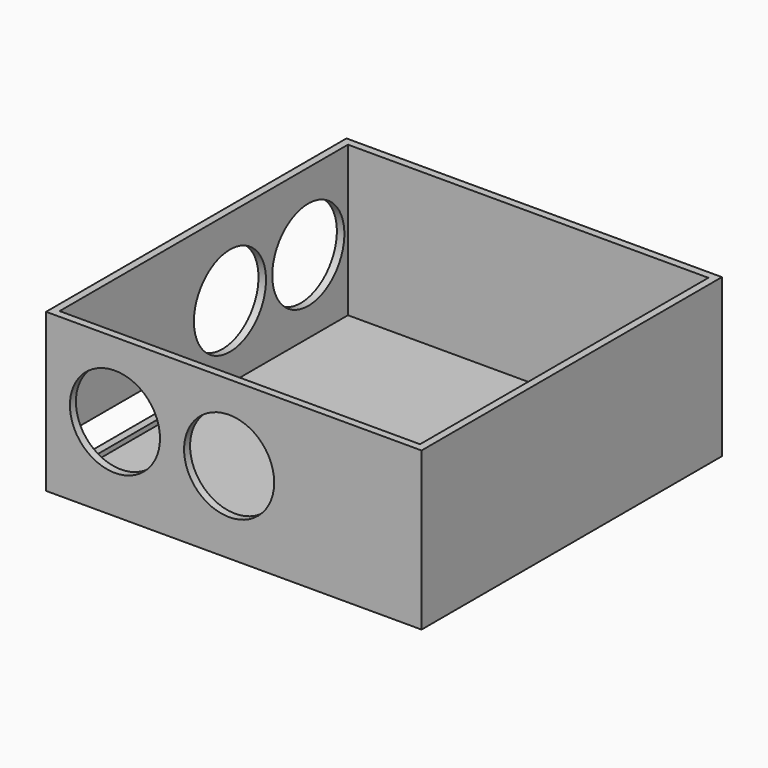
from build123d import *

# Parameters (mm, degrees)
F0_W         = 500
F0_H         = 500
F1_DEPTH     = 10
F2_W         = 500
F2_H         = 10
F3_DEPTH     = 200
F4_W         = 10
F4_H         = 490
F5_DEPTH     = 250
F6_W         = 490
F6_H         = 10
F7_DEPTH     = 250
F8_W         = 10
F8_H         = 480
F9_DEPTH     = 250
F10_DEPTH    = 50
F10_FACE_W   = 500
F10_FACE_H   = 500
F10_FACE_W_2 = 480
F10_FACE_H_2 = 480
F11_DEPTH    = 50
F12_R        = 60
F13_DEPTH    = 70
F14_R        = 60
F15_DEPTH    = 122
F16_W        = 220
F16_H        = 45
F17_DEPTH    = 25
F18_R        = 60
F19_DEPTH    = 25
F20_R        = 60
F21_DEPTH    = 25


with BuildPart() as f1:
    # F0 (on Top) → F1 (new body)
    with BuildSketch(Plane.XY):
        with Locations((-198.410127, 219.103556)):
            Rectangle(F0_W, F0_H)
    extrude(amount=F1_DEPTH)

    # F2 (on face) → F3 (join)
    with BuildSketch(Plane.XY.offset(10)):
        with Locations((-198.410127, 464.103556)):
            Rectangle(F2_W, F2_H)
    extrude(amount=F3_DEPTH)

    # F4 (on face) → F5 (join)
    with BuildSketch(Plane.XY.offset(10)):
        with Locations((46.589873, 214.103556)):
            Rectangle(F4_W, F4_H)
    extrude(amount=F5_DEPTH)

    # F6 (on face) → F7 (join)
    with BuildSketch(Plane.XY.offset(10)):
        with Locations((-203.410127, -25.896444)):
            Rectangle(F6_W, F6_H)
    extrude(amount=F7_DEPTH)

    # F8 (on face) → F9 (join)
    with BuildSketch(Plane.XY.offset(10)):
        with Locations((-443.410127, 219.103556)):
            Rectangle(F8_W, F8_H)
    extrude(amount=F9_DEPTH)

    # F3_face (on face) → F10 (join)
    with BuildSketch(Plane(origin=(-198.410127, 464.103556, 210), x_dir=(1, 0, 0), z_dir=(0, 0, 1))):
        Polygon((-250, -5), (-240, -5), (240, -5), (250, -5), (250, 5), (-250, 5), align=None)
    extrude(amount=F10_DEPTH)

    # F10_face (on face) → F11 (cut)
    with BuildSketch(Plane(origin=(-198.410127, 219.103556, 260), x_dir=(1, 0, 0), z_dir=(0, 0, 1))):
        Rectangle(F10_FACE_W, F10_FACE_H)
        Rectangle(F10_FACE_W_2, F10_FACE_H_2, mode=Mode.SUBTRACT)
    extrude(amount=-F11_DEPTH, mode=Mode.SUBTRACT)

    # F12 (on face) → F13 (cut)
    with BuildSketch(Plane.XZ.offset(30.896444)):
        with Locations((-356.697887, 110.873759)):
            Circle(F12_R)
    extrude(amount=-F13_DEPTH, mode=Mode.SUBTRACT)

    # F14 (on face) → F15 (cut)
    with BuildSketch(Plane.XZ.offset(30.896444)):
        with Locations((-204.655066, 108.496942)):
            Circle(F14_R)
    extrude(amount=-F15_DEPTH, mode=Mode.SUBTRACT)

    # F16 (on face) → F17 (cut)
    with BuildSketch(Plane(origin=(-448.410127, 0, 0), x_dir=(0, -1, 0), z_dir=(-1, 0, 0))):
        with Locations((-89.816239, 39.089018)):
            Rectangle(F16_W, F16_H)
    extrude(amount=-F17_DEPTH, mode=Mode.SUBTRACT)

    # F18 (on face) → F19 (cut)
    with BuildSketch(Plane(origin=(-448.410127, 0, 0), x_dir=(0, -1, 0), z_dir=(-1, 0, 0))):
        with Locations((-393.093586, 107.814118)):
            Circle(F18_R)
    extrude(amount=-F19_DEPTH, mode=Mode.SUBTRACT)

    # F20 (on face) → F21 (cut)
    with BuildSketch(Plane(origin=(-448.410127, 0, 0), x_dir=(0, -1, 0), z_dir=(-1, 0, 0))):
        with Locations((-262.70619, 106.892653)):
            Circle(F20_R)
    extrude(amount=-F21_DEPTH, mode=Mode.SUBTRACT)


solid = f1.part
